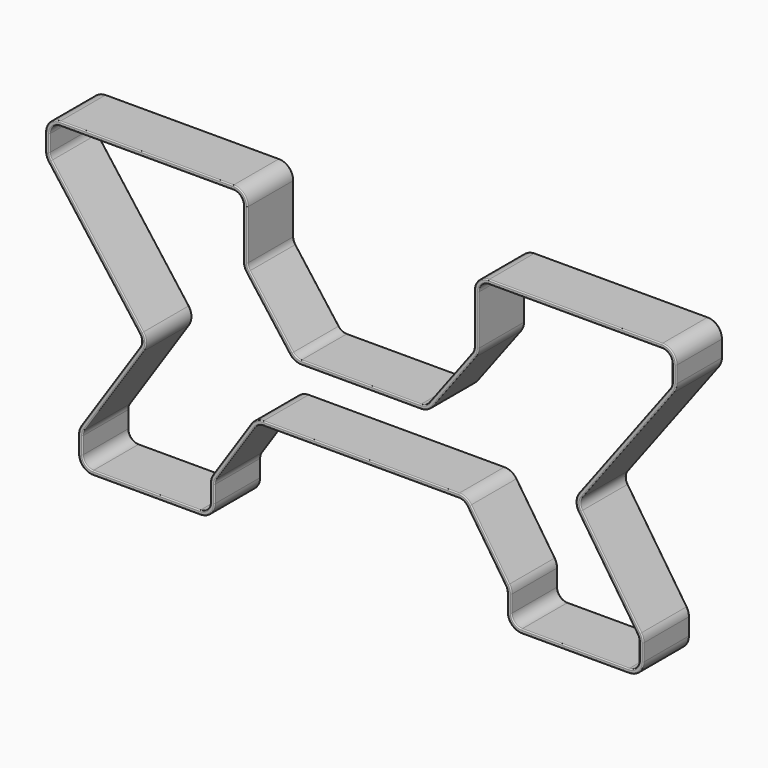
from build123d import *


with BuildPart() as f2:
    # F2: sweep along a path in F0
    with BuildLine(Plane.XZ) as f2_path:
        Line((0, -101.6), (-150.6714160675, -101.6))
        ThreePointArc((-150.6714160675, -101.6), (-159.6603095489, -103.8540988935), (-166.5219741746, -110.0829612619))
        Line((-166.5219741746, -110.0829612619), (-225.4005581071, -198.4008371607))
        ThreePointArc((-225.4005581071, -198.4008371607), (-227.7826031046, -203.4474878663), (-228.6, -208.9678758988))
        Line((-228.6, -208.9678758988), (-228.6, -234.95))
        ThreePointArc((-228.6, -234.95), (-234.1796158184, -248.4203841816), (-247.65, -254))
        Line((-247.65, -254), (-412.75, -254))
        ThreePointArc((-412.75, -254), (-426.2203841816, -248.4203841816), (-431.8, -234.95))
        Line((-431.8, -234.95), (-431.8, -208.9678758988))
        ThreePointArc((-431.8, -208.9678758988), (-430.9826031046, -203.4474878663), (-428.6005581071, -198.4008371607))
        Line((-428.6005581071, -198.4008371607), (-337.6763392689, -62.0145089034))
        ThreePointArc((-337.6763392689, -62.0145089034), (-334.4842313556, -50.918914742), (-338.286897376, -40.0174701653))
        Line((-338.286897376, -40.0174701653), (-478.79, 147.32))
        ThreePointArc((-478.79, 147.32), (-481.6224168279, 152.7258610574), (-482.6, 158.75))
        Line((-482.6, 158.75), (-482.6, 184.15))
        ThreePointArc((-482.6, 184.15), (-477.0203841816, 197.6203841816), (-463.55, 203.2))
        Line((-463.55, 203.2), (-196.85, 203.2))
        ThreePointArc((-196.85, 203.2), (-183.3796158184, 197.6203841816), (-177.8, 184.15))
        Line((-177.8, 184.15), (-177.8, 107.95))
        ThreePointArc((-177.8, 107.95), (-176.8224168279, 101.9258610574), (-173.99, 96.52))
        Line((-173.99, 96.52), (-107.315, 7.62))
        ThreePointArc((-107.315, 7.62), (-100.5944189943, 2.0111620115), (-92.075, 0))
        Line((-92.075, 0), (0, 0))
    # F1 (on Right) → F2 (sweep)
    with BuildSketch(Plane.YZ):
        with BuildLine():
            Line((-42.8625, -3.175), (42.8625, -3.175))
            ThreePointArc((42.8625, -3.175), (43.9850320151, -2.7100320151), (44.45, -1.5875))
            Line((44.45, -1.5875), (44.45, 1.5875))
            ThreePointArc((44.45, 1.5875), (43.9850320151, 2.7100320151), (42.8625, 3.175))
            Line((42.8625, 3.175), (-42.8625, 3.175))
            ThreePointArc((-42.8625, 3.175), (-43.9850320151, 2.7100320151), (-44.45, 1.5875))
            Line((-44.45, 1.5875), (-44.45, -1.5875))
            ThreePointArc((-44.45, -1.5875), (-43.9850320151, -2.7100320151), (-42.8625, -3.175))
        make_face()
    sweep(path=f2_path.line)

    # F3: F2 across plane


with BuildPart() as f2_1:
    add(f2.part)
    add(f2.part.mirror(Plane.YZ))


solid = f2_1.part
